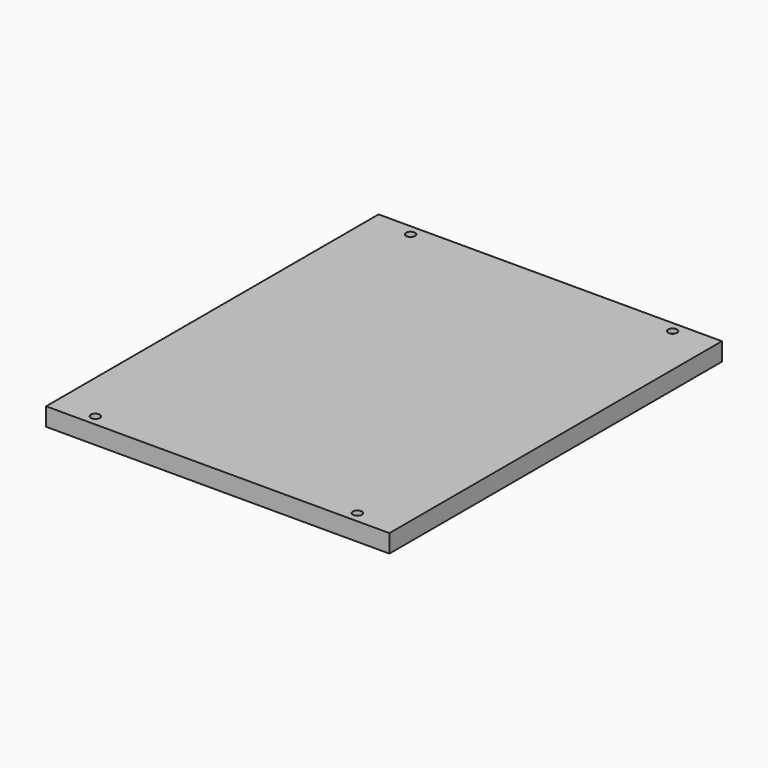
from build123d import *

# Parameters (mm, degrees)
F0_W     = 48.26
F0_H     = 58.42
F1_DEPTH = 2.54
F2_R     = 0.635
F3_DEPTH = 0.635
F4_R     = 0.635
F7_DEPTH = 0.635
F6_R     = 0.635
F8_DEPTH = 0.635
F5_R     = 0.635
F9_DEPTH = 0.635


with BuildPart() as f1:
    # F0 (on Top) → F1 (new body)
    with BuildSketch(Plane.XY):
        with Locations((1.990296, 10.590553)):
            Rectangle(F0_W, F0_H)
    extrude(amount=F1_DEPTH)

    # F2 (on face) → F3 (cut)
    with BuildSketch(Plane.XY.offset(2.54)):
        with Locations((20.405296, 38.276553)):
            Circle(F2_R)
    extrude(amount=-F3_DEPTH, mode=Mode.SUBTRACT)

    # F4 (on face) → F7 (cut)
    with BuildSketch(Plane.XY.offset(2.54)):
        with Locations((-16.424704, 38.276553)):
            Circle(F4_R)
    extrude(amount=-F7_DEPTH, mode=Mode.SUBTRACT)

    # F6 (on face) → F8 (cut)
    with BuildSketch(Plane.XY.offset(2.54)):
        with Locations((20.405296, -17.095447)):
            Circle(F6_R)
    extrude(amount=-F8_DEPTH, mode=Mode.SUBTRACT)

    # F5 (on face) → F9 (cut)
    with BuildSketch(Plane.XY.offset(2.54)):
        with Locations((-16.424704, -17.095447)):
            Circle(F5_R)
    extrude(amount=-F9_DEPTH, mode=Mode.SUBTRACT)


solid = f1.part
